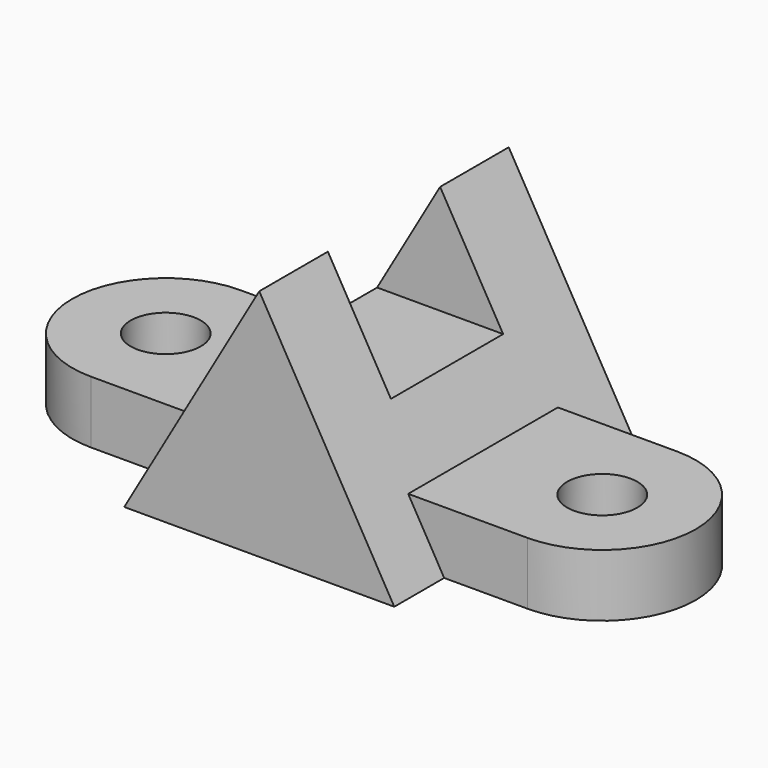
from build123d import *

# Parameters (mm, degrees)
F0_R     = 7.14375
F1_DEPTH = 12.7
F3_DEPTH = 31.75
F5_DEPTH = 107.951


with BuildPart() as f1:
    # F0 (on Top) → F1 (new body)
    with BuildSketch(Plane.XY):
        with BuildLine():
            Line((0, -19.05), (88.9, -19.05))
            ThreePointArc((88.9, -19.05), (107.95, 0), (88.9, 19.05))
            Line((88.9, 19.05), (0, 19.05))
            ThreePointArc((0, 19.05), (-19.05, 0), (0, -19.05))
        make_face()
        Circle(F0_R, mode=Mode.SUBTRACT)
        with Locations((88.9, 0)):
            Circle(F0_R, mode=Mode.SUBTRACT)
    extrude(amount=F1_DEPTH)

    # F2 (on Front) → F3 (join, symmetric)
    with BuildSketch(Plane.XZ):
        Polygon((44.45, 47.625), (16.953693, 0), (44.45, 0), align=None)
        Polygon((44.45, 47.625), (44.45, 0), (71.946307, 0), align=None)
    extrude(amount=F3_DEPTH, both=True)

    # F4 (on Right) → F5 (cut, through all)
    with BuildSketch(Plane.YZ):
        Polygon((-14.2875, 25.4), (0, 25.4), (14.2875, 25.4), (14.2875, 47.625), (-14.2875, 47.625), align=None)
    extrude(amount=F5_DEPTH, mode=Mode.SUBTRACT)


solid = f1.part
